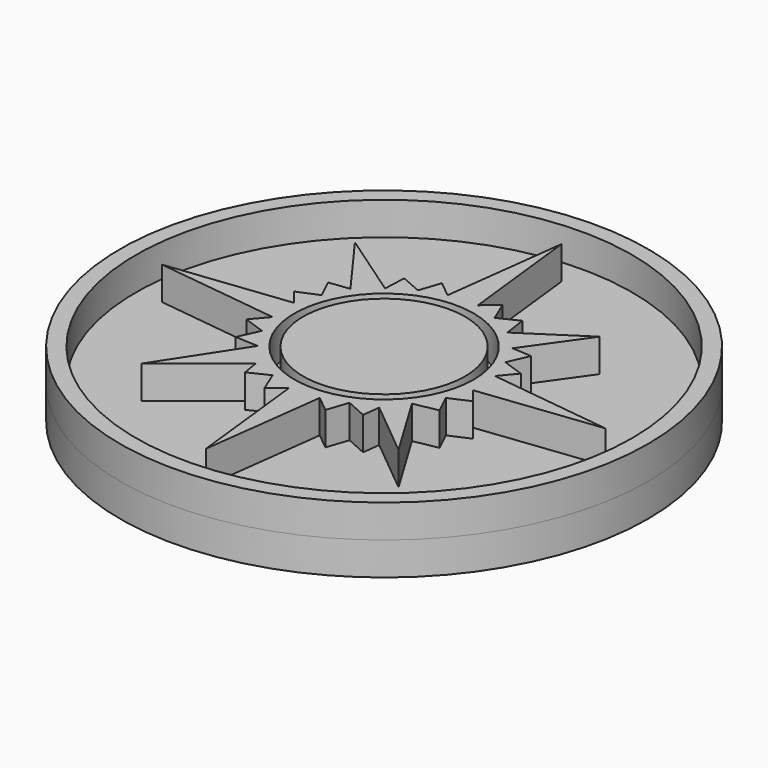
from build123d import *

# Parameters (mm, degrees)
F0_R     = 6.1327488562
F1_DEPTH = 2.5
F0_R_2   = 6.7928380713
F0_R_3   = 20
F0_R_4   = 18.8
F2_DEPTH = 2.5


with BuildPart() as f1:
    # F0 (on Top) → F1 (new body)
    with BuildSketch(Plane.XY):
        Circle(F0_R)
    extrude(amount=F1_DEPTH)


with BuildPart() as f1b:
    # F0 (on Top) → F1, piece 2 (new body)
    with BuildSketch(Plane.XY):
        Polygon((-7.6435967349, 1.0434347205), (-16.8098479044, -0.0162622448), (-7.5063370168, -1.173548284), (-8.5332849994, -2.3723696359), (-6.8961842917, -2.9438508209), (-7.6145799831, -4.5352084562), (-5.8870068751, -4.615157377), (-9.8348688334, -10.6725841761), (-4.5757410116, -6.4222076908), (-4.3537789024, -7.7253044583), (-2.8498813044, -6.9948397577), (-2.2040717304, -8.5630370304), (-1.0699772974, -7.6435618103), (-0.0449164761, -16.8285462119), (1.1409935541, -7.5209443457), (2.3673565593, -8.522474207), (2.9090000317, -6.9026532583), (4.4981618412, -7.6180319302), (4.6667866409, -6.2945820391), (8.9388918132, -9.8065212369), (5.860612262, -4.685937427), (7.681875024, -4.3429308571), (6.973686628, -2.8615165502), (8.5056861863, -2.1894602105), (7.6023219153, -1.0914477753), (16.7771086562, -0.0162622448), (7.4810241349, 1.1445758864), (8.4864869714, 2.3433971219), (6.8622766994, 2.9105816502), (7.5583667494, 4.4789318927), (6.0759531334, 4.5691658743), (9.1685894877, 8.9486911893), (4.5796297491, 5.9480578639), (4.3267053552, 7.6823970303), (2.816384891, 6.9525293075), (2.1587812807, 8.5062077269), (1.0386873037, 7.5956801884), (0, 16.7960217223), (-1.1687686201, 7.4688196182), (-2.3900324013, 8.4732910618), (-2.9320132453, 6.8690273911), (-4.5218244195, 7.5627630576), (-4.6013146639, 5.8428766206), (-9.6843484789, 9.3433009461), (-6.1732097529, 4.5275227167), (-7.7200760134, 4.329867661), (-6.9873169996, 2.8299740516), (-8.5550965741, 2.1736943163), align=None)
        Circle(F0_R_2, mode=Mode.SUBTRACT)
    extrude(amount=F1_DEPTH)


with BuildPart() as f1c:
    # F0 (on Top) → F1, piece 3 (new body)
    with BuildSketch(Plane.XY):
        Circle(F0_R_3)
        Circle(F0_R_4, mode=Mode.SUBTRACT)
    extrude(amount=F1_DEPTH)


with BuildPart() as f2:
    # F0 (on Top) → F2 (new body)
    with BuildSketch(Plane.XY):
        Circle(F0_R_3)
        Circle(F0_R_4, mode=Mode.SUBTRACT)
        Circle(F0_R_4)
        Polygon((-7.5063370168, -1.173548284), (-16.8098479044, -0.0162622448), (-7.6435967349, 1.0434347205), (-8.5550965741, 2.1736943163), (-6.9873169996, 2.8299740516), (-7.7200760134, 4.329867661), (-6.1732097529, 4.5275227167), (-9.6843484789, 9.3433009461), (-4.6013146639, 5.8428766206), (-4.5218244195, 7.5627630576), (-2.9320132453, 6.8690273911), (-2.3900324013, 8.4732910618), (-1.1687686201, 7.4688196182), (0, 16.7960217223), (1.0386873037, 7.5956801884), (2.1587812807, 8.5062077269), (2.816384891, 6.9525293075), (4.3267053552, 7.6823970303), (4.5796297491, 5.9480578639), (9.1685894877, 8.9486911893), (6.0759531334, 4.5691658743), (7.5583667494, 4.4789318927), (6.8622766994, 2.9105816502), (8.4864869714, 2.3433971219), (7.4810241349, 1.1445758864), (16.7771086562, -0.0162622448), (7.6023219153, -1.0914477753), (8.5056861863, -2.1894602105), (6.973686628, -2.8615165502), (7.681875024, -4.3429308571), (5.860612262, -4.685937427), (8.9388918132, -9.8065212369), (4.6667866409, -6.2945820391), (4.4981618412, -7.6180319302), (2.9090000317, -6.9026532583), (2.3673565593, -8.522474207), (1.1409935541, -7.5209443457), (-0.0449164761, -16.8285462119), (-1.0699772974, -7.6435618103), (-2.2040717304, -8.5630370304), (-2.8498813044, -6.9948397577), (-4.3537789024, -7.7253044583), (-4.5757410116, -6.4222076908), (-9.8348688334, -10.6725841761), (-5.8870068751, -4.615157377), (-7.6145799831, -4.5352084562), (-6.8961842917, -2.9438508209), (-8.5332849994, -2.3723696359), align=None, mode=Mode.SUBTRACT)
        Polygon((-7.6435967349, 1.0434347205), (-16.8098479044, -0.0162622448), (-7.5063370168, -1.173548284), (-8.5332849994, -2.3723696359), (-6.8961842917, -2.9438508209), (-7.6145799831, -4.5352084562), (-5.8870068751, -4.615157377), (-9.8348688334, -10.6725841761), (-4.5757410116, -6.4222076908), (-4.3537789024, -7.7253044583), (-2.8498813044, -6.9948397577), (-2.2040717304, -8.5630370304), (-1.0699772974, -7.6435618103), (-0.0449164761, -16.8285462119), (1.1409935541, -7.5209443457), (2.3673565593, -8.522474207), (2.9090000317, -6.9026532583), (4.4981618412, -7.6180319302), (4.6667866409, -6.2945820391), (8.9388918132, -9.8065212369), (5.860612262, -4.685937427), (7.681875024, -4.3429308571), (6.973686628, -2.8615165502), (8.5056861863, -2.1894602105), (7.6023219153, -1.0914477753), (16.7771086562, -0.0162622448), (7.4810241349, 1.1445758864), (8.4864869714, 2.3433971219), (6.8622766994, 2.9105816502), (7.5583667494, 4.4789318927), (6.0759531334, 4.5691658743), (9.1685894877, 8.9486911893), (4.5796297491, 5.9480578639), (4.3267053552, 7.6823970303), (2.816384891, 6.9525293075), (2.1587812807, 8.5062077269), (1.0386873037, 7.5956801884), (0, 16.7960217223), (-1.1687686201, 7.4688196182), (-2.3900324013, 8.4732910618), (-2.9320132453, 6.8690273911), (-4.5218244195, 7.5627630576), (-4.6013146639, 5.8428766206), (-9.6843484789, 9.3433009461), (-6.1732097529, 4.5275227167), (-7.7200760134, 4.329867661), (-6.9873169996, 2.8299740516), (-8.5550965741, 2.1736943163), align=None)
        Circle(F0_R_2, mode=Mode.SUBTRACT)
        Circle(F0_R_2)
        Circle(F0_R, mode=Mode.SUBTRACT)
        Circle(F0_R)
    extrude(amount=-F2_DEPTH)


solid = Compound([f1.part, f1b.part, f1c.part, f2.part])
